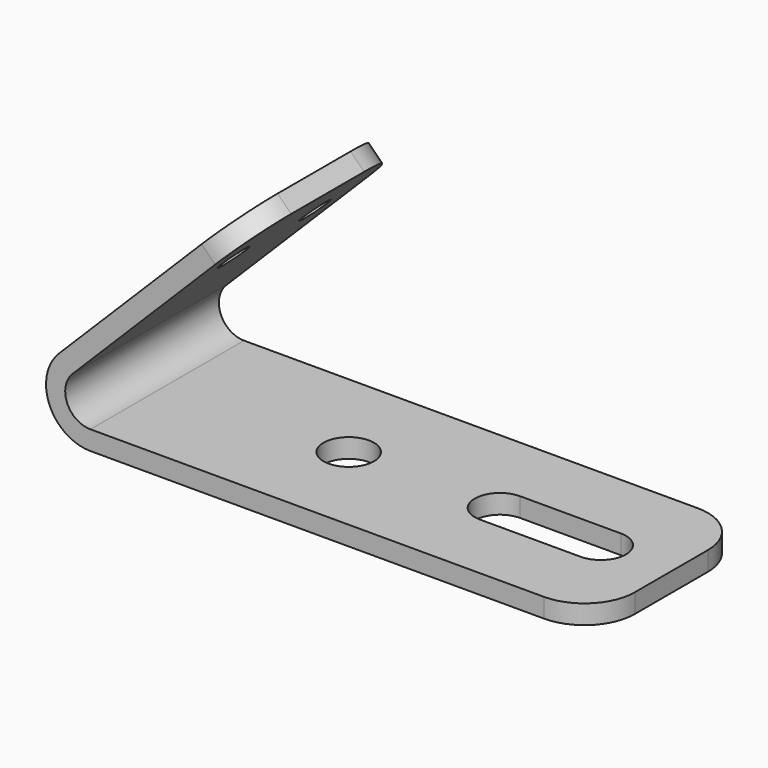
from build123d import *

# Parameters (mm, degrees)
F1_DEPTH = 241.935
F3_R     = 127
F2_R     = 63.5
F4_DEPTH = 1264.92
F6_DEPTH = 76.2
F7_R     = 127


with BuildPart() as f1:
    # F0 (on Front) → F1 (new body, symmetric)
    with BuildSketch(Plane.XZ):
        with BuildLine():
            Line((-141.0627479993, 528.0390599189), (-590.0755540528, 79.0262538654))
            ThreePointArc((-590.0755540528, 79.0262538654), (-614.3020767408, -42.7687004011), (-511.0493001874, -111.76))
            Line((-511.0493001874, -111.76), (758.9506998126, -111.76))
            Line((758.9506998126, -111.76), (758.9506998126, -63.5))
            Line((758.9506998126, -63.5), (-511.0493001874, -63.5))
            ThreePointArc((-511.0493001874, -63.5), (-569.7156505018, -24.3003979552), (-555.9505807927, 44.9012806053))
            Line((-555.9505807927, 44.9012806053), (-106.9377747393, 493.9140866588))
            Line((-106.9377747393, 493.9140866588), (-141.0627479993, 528.0390599189))
        make_face()
    extrude(amount=F1_DEPTH, both=True)

    # F3
    f3_edges = [f1.edges().sort_by_distance(p)[0] for p in [
        (758.9507, 241.935, -87.63),
        (758.9507, -241.935, -87.63),
    ]]
    fillet(f3_edges, radius=F3_R)

    # F2 (on face) → F4 (cut)
    with BuildSketch(Plane.XY.offset(-63.5)):
        with BuildLine():
            Line((327.1506998126, -63.5), (581.1506998126, -63.5))
            ThreePointArc((581.1506998126, -63.5), (644.6506998126, 0), (581.1506998126, 63.5))
            Line((581.1506998126, 63.5), (327.1506998126, 63.5))
            ThreePointArc((327.1506998126, 63.5), (263.6506998126, 0), (327.1506998126, -63.5))
        make_face()
        with Locations((-53.8493001874, 0)):
            Circle(F2_R)
    extrude(amount=-F4_DEPTH, mode=Mode.SUBTRACT)

    # F5 (on face) → F6 (cut)
    with BuildSketch(Plane(origin=(-334.5509039591, 0, 334.5509039591), x_dir=(0, -1, 0), z_dir=(-0.7071067812, 0, 0.7071067812))):
        with BuildLine():
            ThreePointArc((-89.535, 83.1335743169), (-100.6942316368, 110.0743426801), (-127.635, 121.2335743169))
            Line((-127.635, 121.2335743169), (-127.635, 83.1335743169))
            Line((-127.635, 83.1335743169), (-89.535, 83.1335743169))
        make_face()
        with BuildLine():
            ThreePointArc((-127.635, 45.0335743169), (-100.6942316368, 56.1928059537), (-89.535, 83.1335743169))
            Line((-89.535, 83.1335743169), (-127.635, 83.1335743169))
            Line((-127.635, 83.1335743169), (-127.635, 45.0335743169))
        make_face()
        with BuildLine():
            Line((-127.635, 45.0335743169), (-127.635, 83.1335743169))
            Line((-127.635, 83.1335743169), (-165.735, 83.1335743169))
            ThreePointArc((-165.735, 83.1335743169), (-154.5757683632, 56.1928059537), (-127.635, 45.0335743169))
        make_face()
        with BuildLine():
            Line((-127.635, 83.1335743169), (-127.635, 121.2335743169))
            ThreePointArc((-127.635, 121.2335743169), (-154.5757683632, 110.0743426801), (-165.735, 83.1335743169))
            Line((-165.735, 83.1335743169), (-127.635, 83.1335743169))
        make_face()
        with BuildLine():
            Line((127.635, 45.0335743169), (127.635, 83.1335743169))
            Line((127.635, 83.1335743169), (89.535, 83.1335743169))
            ThreePointArc((89.535, 83.1335743169), (100.6942316368, 56.1928059537), (127.635, 45.0335743169))
        make_face()
        with BuildLine():
            Line((127.635, 83.1335743169), (127.635, 121.2335743169))
            ThreePointArc((127.635, 121.2335743169), (100.6942316368, 110.0743426801), (89.535, 83.1335743169))
            Line((89.535, 83.1335743169), (127.635, 83.1335743169))
        make_face()
        with BuildLine():
            Line((165.735, 83.1335743169), (127.635, 83.1335743169))
            Line((127.635, 83.1335743169), (127.635, 45.0335743169))
            ThreePointArc((127.635, 45.0335743169), (154.5757683632, 56.1928059537), (165.735, 83.1335743169))
        make_face()
        with BuildLine():
            ThreePointArc((165.735, 83.1335743169), (154.5757683632, 110.0743426801), (127.635, 121.2335743169))
            Line((127.635, 121.2335743169), (127.635, 83.1335743169))
            Line((127.635, 83.1335743169), (165.735, 83.1335743169))
        make_face()
    extrude(amount=-F6_DEPTH, mode=Mode.SUBTRACT)

    # F7
    f7_edges = [f1.edges().sort_by_distance(p)[0] for p in [
        (-124.000261, -241.935, 510.976573),
        (-124.000261, 241.935, 510.976573),
    ]]
    fillet(f7_edges, radius=F7_R)


solid = f1.part
